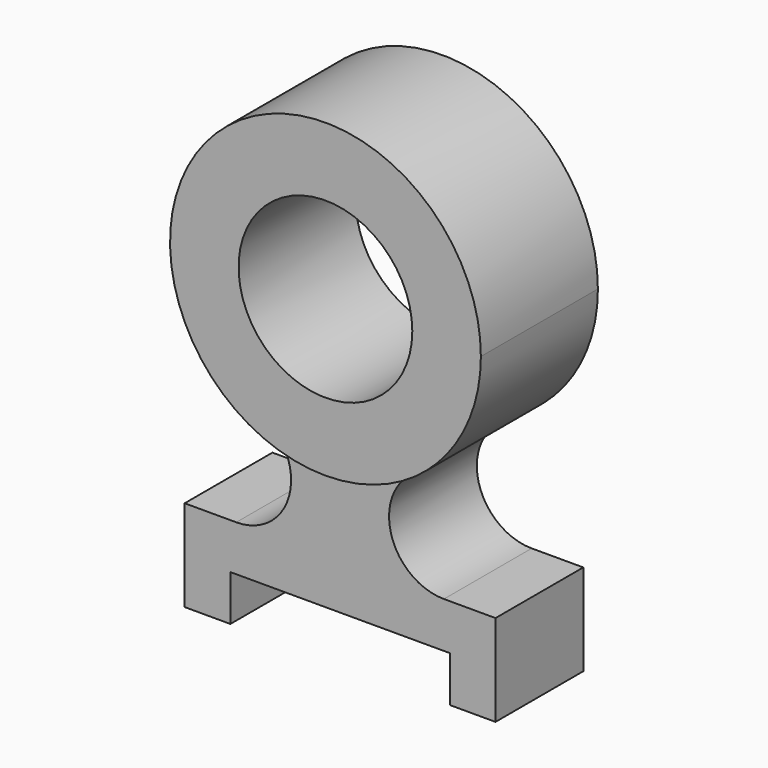
from build123d import *

# Parameters (mm, degrees)
F1_DEPTH = 6
F0_R     = 9.5
F2_DEPTH = 8


with BuildPart() as f1:
    # F0 (on Front) → F1 (new body, symmetric)
    with BuildSketch(Plane.XZ):
        with BuildLine():
            ThreePointArc((8.394908, -14.782609), (0, -17), (-8.394908, -14.782609))
            ThreePointArc((-8.394908, -14.782609), (-5.556767, -21.532262), (-11.357817, -26))
            Line((-11.357817, -26), (-17, -26))
            Line((-17, -26), (-17, -36))
            Line((-17, -36), (-12, -36))
            Line((-12, -36), (-12, -31))
            Line((-12, -31), (12, -31))
            Line((12, -31), (12, -36))
            Line((12, -36), (17, -36))
            Line((17, -36), (17, -26))
            Line((17, -26), (11.357817, -26))
            ThreePointArc((11.357817, -26), (5.556767, -21.532262), (8.394908, -14.782609))
        make_face()
    extrude(amount=F1_DEPTH, both=True)

    # F0 (on Front) → F2 (join, symmetric)
    with BuildSketch(Plane.XZ):
        with BuildLine():
            ThreePointArc((8.394908, -14.782609), (14.692063, -8.552385), (17, 0))
            ThreePointArc((17, 0), (-8.552385, 14.692063), (-8.394908, -14.782609))
            ThreePointArc((-8.394908, -14.782609), (0, -17), (8.394908, -14.782609))
        make_face()
        Circle(F0_R, mode=Mode.SUBTRACT)
    extrude(amount=F2_DEPTH, both=True)


solid = f1.part
